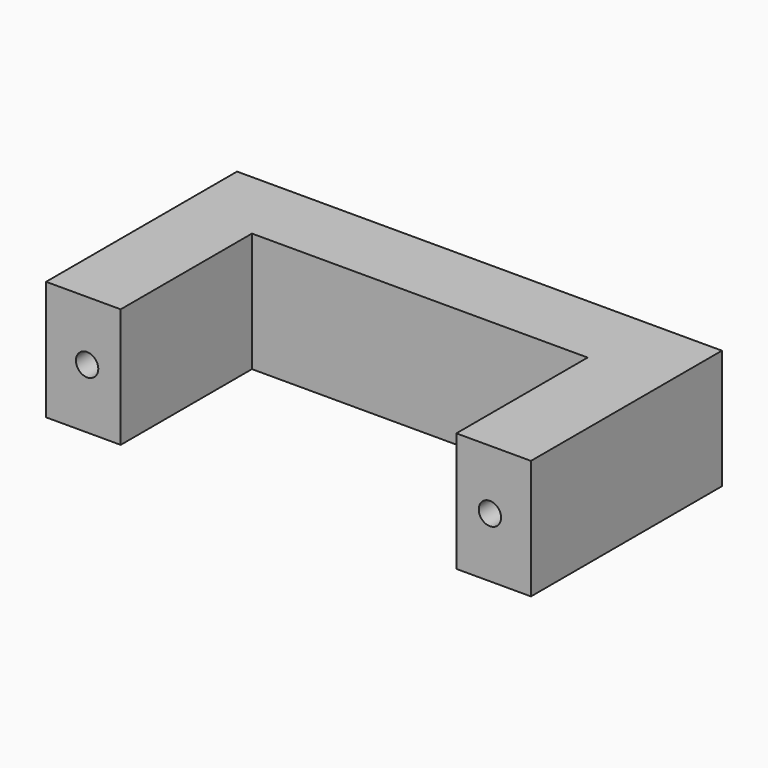
from build123d import *

# Parameters (mm, degrees)
PAD_DEPTH    = 8
SKETCH001_R  = 0.75
POCKET_DEPTH = 10


with BuildPart() as part:
    # Sketch → Pad (new body)
    with BuildSketch(Plane.XY):
        Polygon((11.25, 0), (11.25, -11), (16.25, -11), (16.25, 5), (-16.25, 5), (-16.25, -11), (-11.25, -11), (-11.25, 0), align=None)
    extrude(amount=PAD_DEPTH)

    # Sketch001 (on Face6 of Pad) → Pocket (cut)
    with BuildSketch(Plane.XZ.offset(11)):
        with Locations((-13.5, 4)):
            Circle(SKETCH001_R)
        with Locations((13.5, 4)):
            Circle(SKETCH001_R)
    extrude(amount=-POCKET_DEPTH, mode=Mode.SUBTRACT)


solid = part.part
